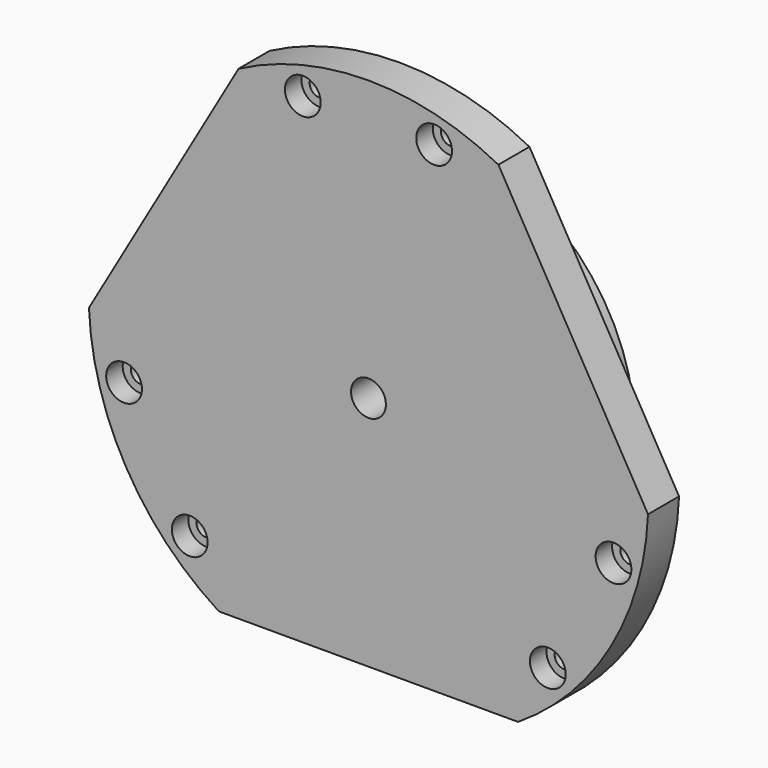
from build123d import *

# Parameters (mm, degrees)
F0_R           = 86.0425
F1_DEPTH       = 11.938
F2_R           = 61.722
F3_DEPTH       = 13.462
F5_DEPTH       = 25.401
F7_D           = 5.99948
F7_CBORE_D     = 11.00074
F7_CBORE_DEPTH = 6.35
F9_D           = 10.71626


with BuildPart() as f1:
    # F0 (on Front) → F1 (new body)
    with BuildSketch(Plane.XZ):
        Circle(F0_R)
    extrude(amount=F1_DEPTH)

    # F2 (on face) → F3 (join)
    with BuildSketch(Plane(origin=(0, 0, 0), x_dir=(-1, 0, 0), z_dir=(0, 1, 0))):
        Circle(F2_R)
    extrude(amount=F3_DEPTH)

    # F4 (on face) → F5 (cut, through all)
    with BuildSketch(Plane.XZ.offset(11.938)):
        with BuildLine():
            Line((-85.9716026302, -3.4921837637), (-39.9614814611, 76.1996837637))
            ThreePointArc((-39.9614814611, 76.1996837637), (-74.5149908051, 43.02125), (-85.9716026302, -3.4921837637))
        make_face()
        with BuildLine():
            ThreePointArc((86.0425, 0), (73.6264136532, 44.5248584368), (39.9614814611, 76.1996837637))
            Line((39.9614814611, 76.1996837637), (85.9716026302, -3.4921837637))
            ThreePointArc((85.9716026302, -3.4921837637), (86.0247738316, -1.7464516796), (86.0425, 0))
        make_face()
        with BuildLine():
            ThreePointArc((-46.0101211692, -72.7075), (0, -86.0425), (46.0101211692, -72.7075))
            Line((46.0101211692, -72.7075), (-46.0101211692, -72.7075))
        make_face()
    extrude(amount=-F5_DEPTH, mode=Mode.SUBTRACT)

    # F7 (through all)
    with Locations(Plane.XZ.offset(11.938)):
        with Locations((20.193, 75.2348), (-20.193, 75.2348), (-75.1715490214, -20.2099480486), (-54.9785490214, -55.1852500059), (55.1683019572, -55.0756960973), (75.3613019572, -20.10039414)):
            CounterBoreHole(F7_D / 2, F7_CBORE_D / 2, F7_CBORE_DEPTH)

    # F9 (through all)
    with Locations(Plane.XZ.offset(11.938)):
        with Locations((0, 0)):
            Hole(F9_D / 2)


solid = f1.part
